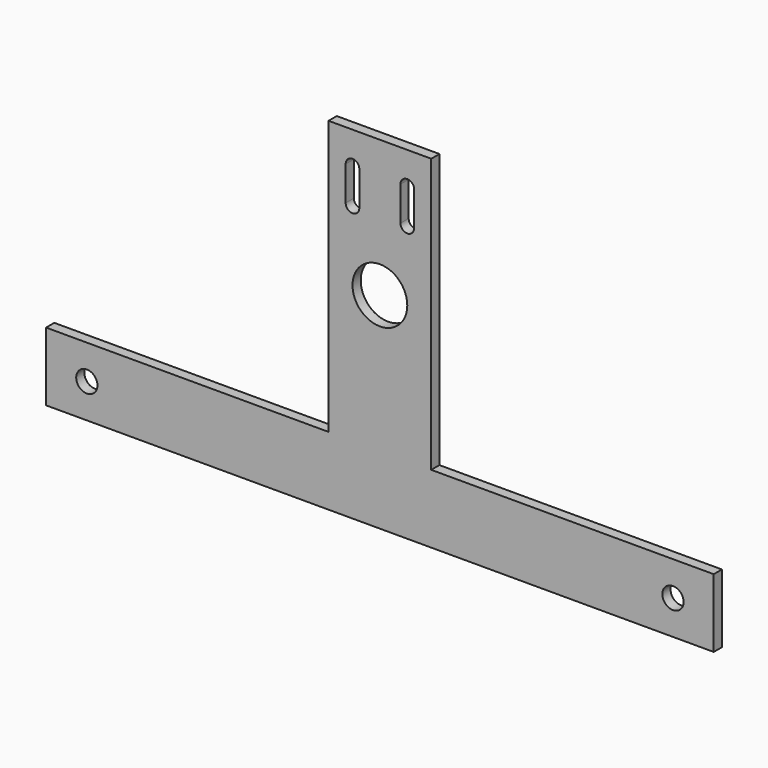
from build123d import *

# Parameters (mm, degrees)
F0_R     = 3.1
F0_R_2   = 8
F1_DEPTH = 3


with BuildPart() as f1:
    # F0 (on Front) → F1 (new body)
    with BuildSketch(Plane.XZ):
        Polygon((-97.5, 0), (0, 0), (97.5, 0), (97.5, 20), (15, 20), (15, 100), (0, 100), (-15, 100), (-15, 20), (-97.5, 20), align=None)
        with Locations((-85.6, 10)):
            Circle(F0_R, mode=Mode.SUBTRACT)
        with Locations((85.6, 10)):
            Circle(F0_R, mode=Mode.SUBTRACT)
        with BuildLine():
            Line((-10, 80.5), (-10, 90.5))
            ThreePointArc((-10, 90.5), (-8, 92.5), (-6, 90.5))
            Line((-6, 90.5), (-6, 80.5))
            ThreePointArc((-6, 80.5), (-8, 78.5), (-10, 80.5))
        make_face(mode=Mode.SUBTRACT)
        with Locations((0, 60)):
            Circle(F0_R_2, mode=Mode.SUBTRACT)
        with BuildLine():
            ThreePointArc((10, 80.5), (8, 78.5), (6, 80.5))
            Line((6, 80.5), (6, 90.5))
            ThreePointArc((6, 90.5), (8, 92.5), (10, 90.5))
            Line((10, 90.5), (10, 80.5))
        make_face(mode=Mode.SUBTRACT)
    extrude(amount=F1_DEPTH)


solid = f1.part
